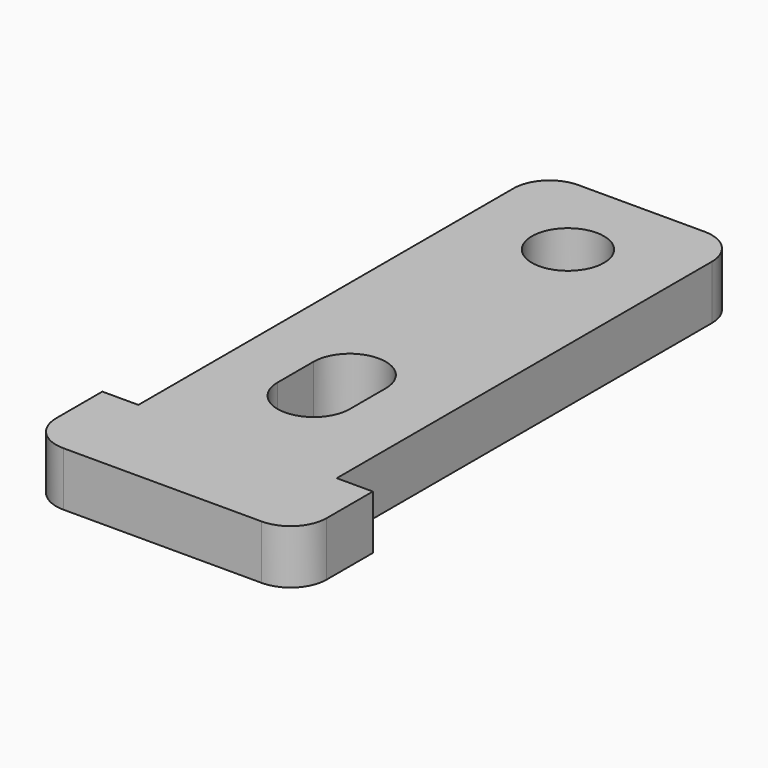
from build123d import *

# Parameters (mm, degrees)
SKETCH_R    = 2
PAD_DEPTH   = 3
FILLET_R    = 2
FILLET001_R = 2
FILLET002_R = 2
FILLET003_R = 2


with BuildPart() as part:
    # Sketch → Pad (new body)
    with BuildSketch(Plane.XY):
        Polygon((-48.942066, 48.928535), (-59.942066, 48.928535), (-59.942066, 20.928535), (-61.942066, 20.928535), (-61.942066, 15.728535), (-46.942066, 15.728535), (-46.942066, 20.928535), (-48.942066, 20.928535), align=None)
        with Locations((-54.519871, 43.928535)):
            Circle(SKETCH_R, mode=Mode.SUBTRACT)
        with BuildLine():
            ThreePointArc((-52.549564, 28.83341), (-54.549564, 30.83341), (-56.549564, 28.83341))
            Line((-56.549564, 28.83341), (-56.549564, 26.340669))
            ThreePointArc((-56.549564, 26.340669), (-54.549564, 24.340669), (-52.549564, 26.340669))
            Line((-52.549564, 28.83341), (-52.549564, 26.340669))
        make_face(mode=Mode.SUBTRACT)
    extrude(amount=PAD_DEPTH)

    # Fillet
    fillet_edges = [part.edges().sort_by_distance(p)[0] for p in [
        (-48.942066, 48.928535, 1.5),
    ]]
    fillet(fillet_edges, radius=FILLET_R)

    # Fillet001
    fillet001_edges = [part.edges().sort_by_distance(p)[0] for p in [
        (-46.942066, 15.728535, 1.5),
    ]]
    fillet(fillet001_edges, radius=FILLET001_R)

    # Fillet002
    fillet002_edges = [part.edges().sort_by_distance(p)[0] for p in [
        (-61.942066, 15.728535, 1.5),
    ]]
    fillet(fillet002_edges, radius=FILLET002_R)

    # Fillet003
    fillet003_edges = [part.edges().sort_by_distance(p)[0] for p in [
        (-59.942066, 48.928535, 1.5),
    ]]
    fillet(fillet003_edges, radius=FILLET003_R)


solid = part.part
